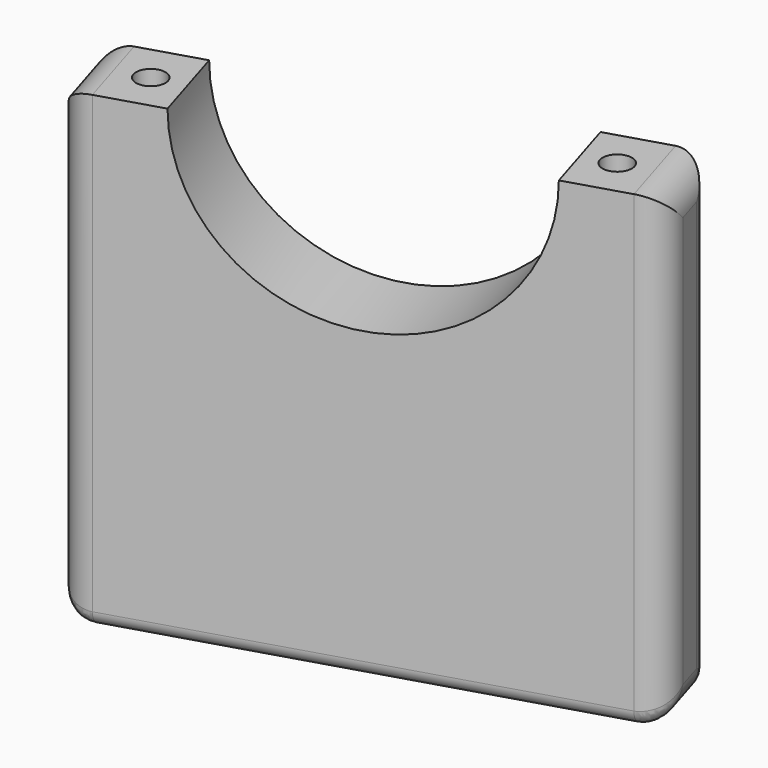
from build123d import *

# Parameters (mm, degrees)
PAD005_DEPTH      = 31
PAD005_DEPTH_BACK = 1
SKETCH022_R       = 11.2
POCKET006_DEPTH   = 15.7868758107
FILLET001_R       = 2
FILLET002_R       = 2
FILLET003_R       = 1
SKETCH026_R       = 1
SKETCH026_R_2     = 1.795314
SKETCH026_R_3     = 4.028245
POCKET008_DEPTH   = 12


with BuildPart() as part:
    # Sketch017 → Pad005 (new body, two sides)
    with BuildSketch(Plane.XY) as pad005_sk:
        Polygon((-6.1017054199, 68.7296820229), (-39.5723718786, 58.4966723576), (-37.8181416502, 52.7588438218), (-4.3474751915, 62.9918534871), align=None)
    extrude(amount=PAD005_DEPTH)
    extrude(pad005_sk.sketch, amount=-PAD005_DEPTH_BACK)

    # Sketch022 → Pocket006 (cut, through all)
    with BuildSketch(Plane(origin=(-19.7381564076, 64.5606005697, 0), x_dir=(-0.956304756, -0.2923717047, 0), z_dir=(-0.2923717047, 0.956304756, 0))):
        with Locations((3.2404756144, 31)):
            Circle(SKETCH022_R)
    extrude(amount=-POCKET006_DEPTH, mode=Mode.SUBTRACT)

    # Fillet001
    fillet001_edges = [part.edges().sort_by_distance(p)[0] for p in [
        (-39.572372, 58.496672, 15),
        (-37.818142, 52.758844, 15),
        (-38.695257, 55.627758, -1),
        (-38.695257, 55.627758, 31),
    ]]
    fillet(fillet001_edges, radius=FILLET001_R)

    # Fillet002
    fillet002_edges = [part.edges().sort_by_distance(p)[0] for p in [
        (-4.347475, 62.991853, 15),
        (-6.101705, 68.729682, 15),
        (-5.22459, 65.860768, -1),
        (-5.22459, 65.860768, 31),
    ]]
    fillet(fillet002_edges, radius=FILLET002_R)

    # Fillet003
    fillet003_edges = [part.edges().sort_by_distance(p)[0] for p in [
        (-22.837039, 63.613177, -1),
        (-21.082808, 57.875349, -1),
    ]]
    fillet(fillet003_edges, radius=FILLET003_R)

    # Sketch026 → Pocket008 (cut)
    with BuildSketch(Plane.XY.offset(31)):
        with Locations((-9.1932550429, 64.6474251804)):
            Circle(SKETCH026_R)
        with Locations((-34.7265920272, 56.8411006643)):
            Circle(SKETCH026_R)
        with Locations((66.962929, 24.575243)):
            Circle(SKETCH026_R_2)
        with Locations((61.462162, -12.93002)):
            Circle(SKETCH026_R_3)
    extrude(amount=-POCKET008_DEPTH, mode=Mode.SUBTRACT)


solid = part.part
